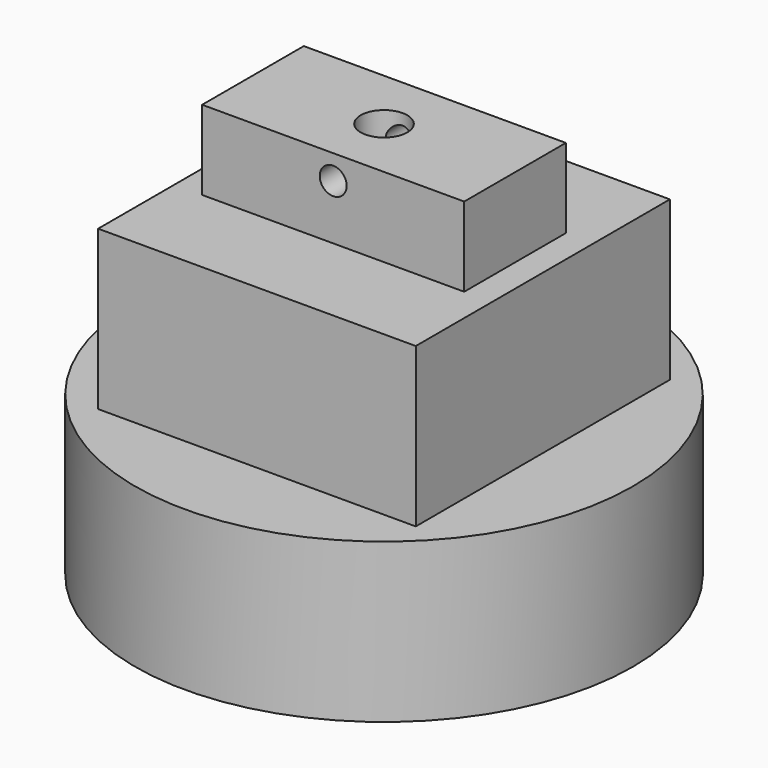
from build123d import *

# Parameters (mm, degrees)
F1_R      = 19.907119
F2_DEPTH  = 12.7
F0_R      = 11.75258
F3_DEPTH  = 12.7
F4_W      = 25.4
F4_H      = 25.4
F5_DEPTH  = 12.7
F6_W      = 20.955
F6_H      = 10.16
F7_DEPTH  = 19.05
F8_R      = 1.075724
F9_DEPTH  = 5.715
F10_R     = 1.861497
F11_DEPTH = 19.05


with BuildPart() as f2:
    # F1 (on Top) → F2 (new body)
    with BuildSketch(Plane.XY):
        Circle(F1_R)
    extrude(amount=-F2_DEPTH)

    # F0 (on Top) → F3 (cut)
    with BuildSketch(Plane.XY):
        Circle(F0_R)
    extrude(amount=-F3_DEPTH, mode=Mode.SUBTRACT)

    # F4 (on Top) → F5 (join)
    with BuildSketch(Plane.XY):
        Rectangle(F4_W, F4_H)
    extrude(amount=F5_DEPTH)

    # F6 (on Top) → F7 (join)
    with BuildSketch(Plane.XY):
        Rectangle(F6_W, F6_H)
    extrude(amount=F7_DEPTH)

    # F8 (on Front) → F9 (cut, symmetric)
    with BuildSketch(Plane.XZ):
        with Locations((0, 17.094158)):
            Circle(F8_R)
    extrude(amount=F9_DEPTH, both=True, mode=Mode.SUBTRACT)

    # F10 (on Top) → F11 (cut)
    with BuildSketch(Plane.XY):
        Circle(F10_R)
    extrude(amount=F11_DEPTH, mode=Mode.SUBTRACT)


solid = f2.part
